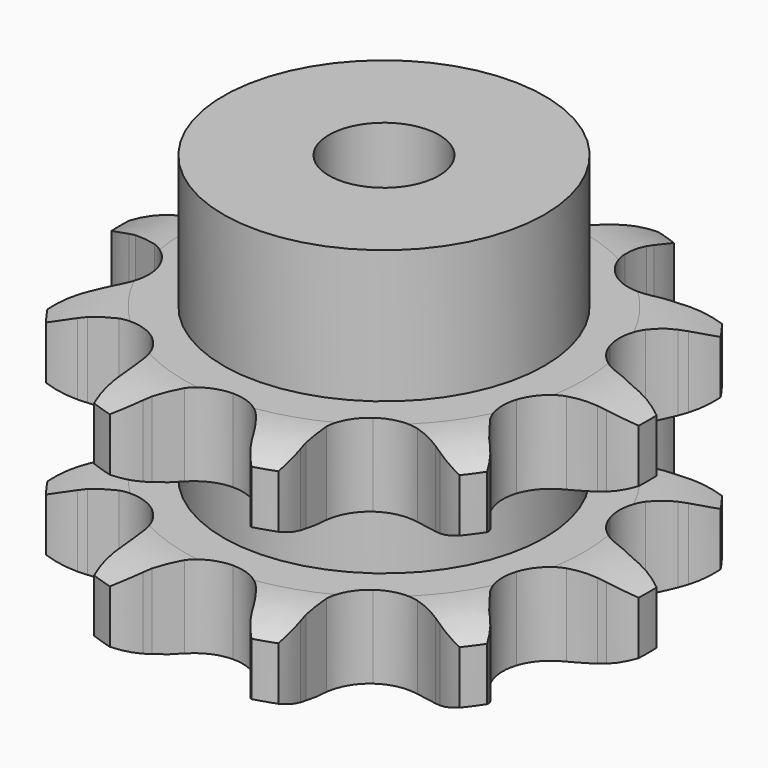
from build123d import *

# Parameters (mm, degrees)
PAD_DEPTH         = 25.5
SKETCH001_R       = 17.5
PAD001_DEPTH      = 40
SKETCH002_R       = 6
POCKET_DEPTH      = 0.001
POCKET_DEPTH_BACK = -40.001


with BuildPart() as part:
    # Sprocket → Pad (new body)
    with BuildSketch(Plane.XY):
        with BuildLine():
            ThreePointArc((-9.384236, 28.881708), (-7.411127, 27.404483), (-5.934887, 25.430638))
            Line((-5.934887, 25.430638), (-5.517872, 24.665778))
            ThreePointArc((-5.517872, 24.665778), (-4.763602, 23.444512), (-3.881849, 22.31185))
            ThreePointArc((-3.881849, 22.31185), (-2.132975, 21.005904), (0, 20.54279))
            ThreePointArc((0, 20.54279), (2.132975, 21.005904), (3.881849, 22.31185))
            ThreePointArc((3.881849, 22.31185), (4.763602, 23.444512), (5.517872, 24.665778))
            Line((5.517872, 24.665778), (5.934887, 25.430638))
            ThreePointArc((5.934887, 25.430638), (7.411127, 27.404483), (9.384236, 28.881708))
            ThreePointArc((9.384236, 28.881708), (10.112223, 26.526844), (10.14633, 24.062257))
            Line((10.14633, 24.062257), (10.034129, 23.198357))
            ThreePointArc((10.034129, 23.198357), (9.926503, 21.766984), (9.974095, 20.332359))
            ThreePointArc((9.974095, 20.332359), (10.621348, 18.247864), (12.074749, 16.619466))
            ThreePointArc((12.074749, 16.619466), (14.072573, 15.740402), (16.255058, 15.768972))
            Line((16.255058, 15.768972), (18.962233, 16.71171))
            ThreePointArc((18.962233, 16.71171), (19.352638, 16.905004), (19.749178, 17.085379))
            ThreePointArc((19.749178, 17.085379), (22.103679, 17.814541), (24.568248, 17.849877))
            ThreePointArc((24.568248, 17.849877), (23.773048, 15.516852), (22.351993, 13.502912))
            Line((22.351993, 13.502912), (21.753433, 12.869952))
            ThreePointArc((21.753433, 12.869952), (20.825022, 11.775208), (20.020273, 10.586598))
            ThreePointArc((20.020273, 10.586598), (19.318676, 8.519761), (19.537354, 6.348071))
            ThreePointArc((19.537354, 6.348071), (20.636927, 4.462602), (22.419388, 3.202883))
            Line((22.419388, 3.202883), (25.163665, 2.374337))
            ThreePointArc((25.163665, 2.374337), (25.593125, 2.30124), (26.019955, 2.214087))
            ThreePointArc((26.019955, 2.214087), (28.353376, 1.42005), (30.368025, 0))
            ThreePointArc((30.368025, 0), (28.353376, -1.42005), (26.019955, -2.214087))
            Line((26.019955, -2.214087), (25.163665, -2.374337))
            ThreePointArc((25.163665, -2.374337), (23.76909, -2.714298), (22.419388, -3.202883))
            ThreePointArc((22.419388, -3.202883), (20.636927, -4.462602), (19.537354, -6.348071))
            ThreePointArc((19.537354, -6.348071), (19.318676, -8.519761), (20.020273, -10.586598))
            Line((20.020273, -10.586598), (21.753433, -12.869952))
            ThreePointArc((21.753433, -12.869952), (22.057908, -13.18152), (22.351993, -13.502912))
            ThreePointArc((22.351993, -13.502912), (23.773048, -15.516852), (24.568248, -17.849877))
            ThreePointArc((24.568248, -17.849877), (22.103679, -17.814541), (19.749178, -17.085379))
            Line((19.749178, -17.085379), (18.962233, -16.71171))
            ThreePointArc((18.962233, -16.71171), (17.634174, -16.167034), (16.255058, -15.768972))
            ThreePointArc((16.255058, -15.768972), (14.072573, -15.740402), (12.074749, -16.619466))
            ThreePointArc((12.074749, -16.619466), (10.621348, -18.247864), (9.974095, -20.332359))
            Line((9.974095, -20.332359), (10.034129, -23.198357))
            ThreePointArc((10.034129, -23.198357), (10.09732, -23.629386), (10.14633, -24.062257))
            ThreePointArc((10.14633, -24.062257), (10.112223, -26.526844), (9.384236, -28.881708))
            ThreePointArc((9.384236, -28.881708), (7.411127, -27.404483), (5.934887, -25.430638))
            Line((5.934887, -25.430638), (5.517872, -24.665778))
            ThreePointArc((5.517872, -24.665778), (4.763602, -23.444512), (3.881849, -22.31185))
            ThreePointArc((3.881849, -22.31185), (2.132975, -21.005904), (0, -20.54279))
            ThreePointArc((0, -20.54279), (-2.132975, -21.005904), (-3.881849, -22.31185))
            Line((-3.881849, -22.31185), (-5.517872, -24.665778))
            ThreePointArc((-5.517872, -24.665778), (-5.720102, -25.051631), (-5.934887, -25.430638))
            ThreePointArc((-5.934887, -25.430638), (-7.411127, -27.404483), (-9.384236, -28.881708))
            ThreePointArc((-9.384236, -28.881708), (-10.112223, -26.526844), (-10.14633, -24.062257))
            Line((-10.14633, -24.062257), (-10.034129, -23.198357))
            ThreePointArc((-10.034129, -23.198357), (-9.926503, -21.766984), (-9.974095, -20.332359))
            ThreePointArc((-9.974095, -20.332359), (-10.621348, -18.247864), (-12.074749, -16.619466))
            ThreePointArc((-12.074749, -16.619466), (-14.072573, -15.740402), (-16.255058, -15.768972))
            Line((-16.255058, -15.768972), (-18.962233, -16.71171))
            ThreePointArc((-18.962233, -16.71171), (-19.352638, -16.905004), (-19.749178, -17.085379))
            ThreePointArc((-19.749178, -17.085379), (-22.103679, -17.814541), (-24.568248, -17.849877))
            ThreePointArc((-24.568248, -17.849877), (-23.773048, -15.516852), (-22.351993, -13.502912))
            Line((-22.351993, -13.502912), (-21.753433, -12.869952))
            ThreePointArc((-21.753433, -12.869952), (-20.825022, -11.775208), (-20.020273, -10.586598))
            ThreePointArc((-20.020273, -10.586598), (-19.318676, -8.519761), (-19.537354, -6.348071))
            ThreePointArc((-19.537354, -6.348071), (-20.636927, -4.462602), (-22.419388, -3.202883))
            Line((-22.419388, -3.202883), (-25.163665, -2.374337))
            ThreePointArc((-25.163665, -2.374337), (-25.593125, -2.30124), (-26.019955, -2.214087))
            ThreePointArc((-26.019955, -2.214087), (-28.353376, -1.42005), (-30.368025, 0))
            ThreePointArc((-30.368025, 0), (-28.353376, 1.42005), (-26.019955, 2.214087))
            Line((-26.019955, 2.214087), (-25.163665, 2.374337))
            ThreePointArc((-25.163665, 2.374337), (-23.76909, 2.714298), (-22.419388, 3.202883))
            ThreePointArc((-22.419388, 3.202883), (-20.636927, 4.462602), (-19.537354, 6.348071))
            ThreePointArc((-19.537354, 6.348071), (-19.318676, 8.519761), (-20.020273, 10.586598))
            Line((-20.020273, 10.586598), (-21.753433, 12.869952))
            ThreePointArc((-21.753433, 12.869952), (-22.057908, 13.18152), (-22.351993, 13.502912))
            ThreePointArc((-22.351993, 13.502912), (-23.773048, 15.516852), (-24.568248, 17.849877))
            ThreePointArc((-24.568248, 17.849877), (-22.103679, 17.814541), (-19.749178, 17.085379))
            Line((-19.749178, 17.085379), (-18.962233, 16.71171))
            ThreePointArc((-18.962233, 16.71171), (-17.634174, 16.167034), (-16.255058, 15.768972))
            ThreePointArc((-16.255058, 15.768972), (-14.072573, 15.740402), (-12.074749, 16.619466))
            ThreePointArc((-12.074749, 16.619466), (-10.621348, 18.247864), (-9.974095, 20.332359))
            Line((-9.974095, 20.332359), (-10.034129, 23.198357))
            ThreePointArc((-10.034129, 23.198357), (-10.09732, 23.629386), (-10.14633, 24.062257))
            ThreePointArc((-10.14633, 24.062257), (-10.112223, 26.526844), (-9.384236, 28.881708))
        make_face()
    extrude(amount=PAD_DEPTH)

    # Sketch → Groove (revolve, cut)
    with BuildSketch(Plane.XZ):
        with BuildLine():
            ThreePointArc((21.775762, 0), (25.35347, 0.405129), (28.75, 1.6))
            Line((28.75, 1.6), (28.75, 7.4))
            ThreePointArc((28.75, 7.4), (25.35347, 8.594871), (21.775762, 9))
            Line((17.5, 9), (21.775762, 9))
            Line((17.5, 16.5), (17.5, 9))
            Line((21.775762, 16.5), (17.5, 16.5))
            ThreePointArc((21.775762, 16.5), (25.35347, 16.905129), (28.75, 18.1))
            Line((28.75, 18.1), (28.75, 23.9))
            ThreePointArc((28.75, 23.9), (25.35347, 25.094871), (21.775762, 25.5))
            Line((21.775762, 25.5), (31.775762, 25.5))
            Line((31.775762, 25.5), (31.775762, 0))
            Line((21.775762, 0), (31.775762, 0))
        make_face()
    revolve(axis=Axis((0, 0, 0), (0, 0, 1)), mode=Mode.SUBTRACT)

    # Sketch001 → Pad001 (join)
    with BuildSketch(Plane.XY):
        Circle(SKETCH001_R)
    extrude(amount=PAD001_DEPTH)

    # Sketch002 → Pocket (cut, two sides)
    with BuildSketch(Plane.XY) as pocket_sk:
        Circle(SKETCH002_R)
    extrude(amount=-POCKET_DEPTH, mode=Mode.SUBTRACT)
    extrude(pocket_sk.sketch, amount=-POCKET_DEPTH_BACK, mode=Mode.SUBTRACT)


solid = part.part
